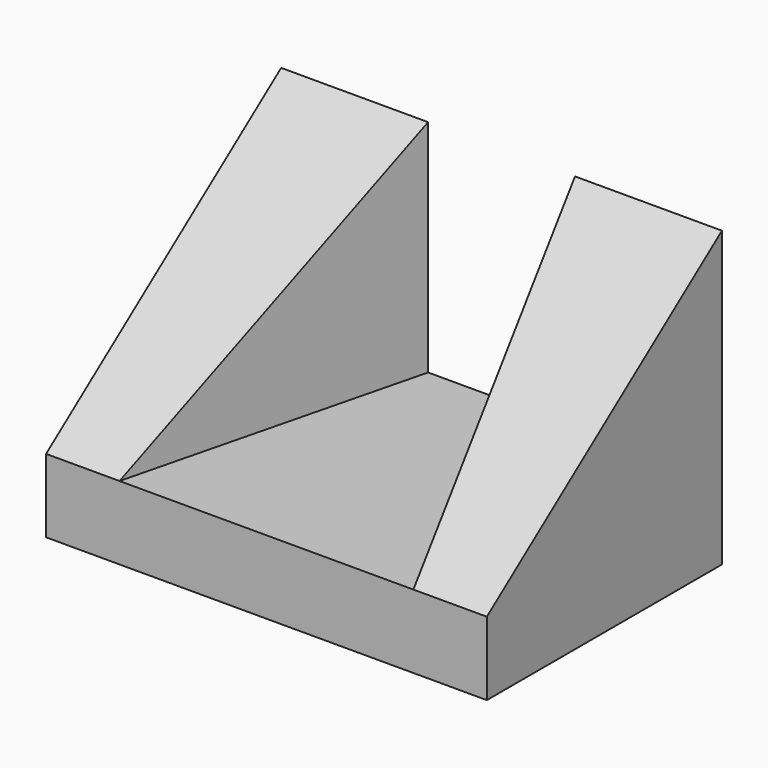
from build123d import *

# Parameters (mm, degrees)
F1_DEPTH = 30
F4_DEPTH = 30


with BuildPart() as f1:
    # F0 (on Right) → F1 (new body, symmetric)
    with BuildSketch(Plane.YZ):
        Polygon((0, 10), (0, 0), (40, 0), (40, 40), align=None)
    extrude(amount=F1_DEPTH, both=True)

    # F3 (on face) → F4 (cut)
    with BuildSketch(Plane(origin=(0, 0, 40), x_dir=(1, 0, 0), z_dir=(0, 0, -1))):
        Polygon((-20, 0), (-10, -40), (10, -40), (20, 0), align=None)
    extrude(amount=F4_DEPTH, mode=Mode.SUBTRACT)


solid = f1.part
